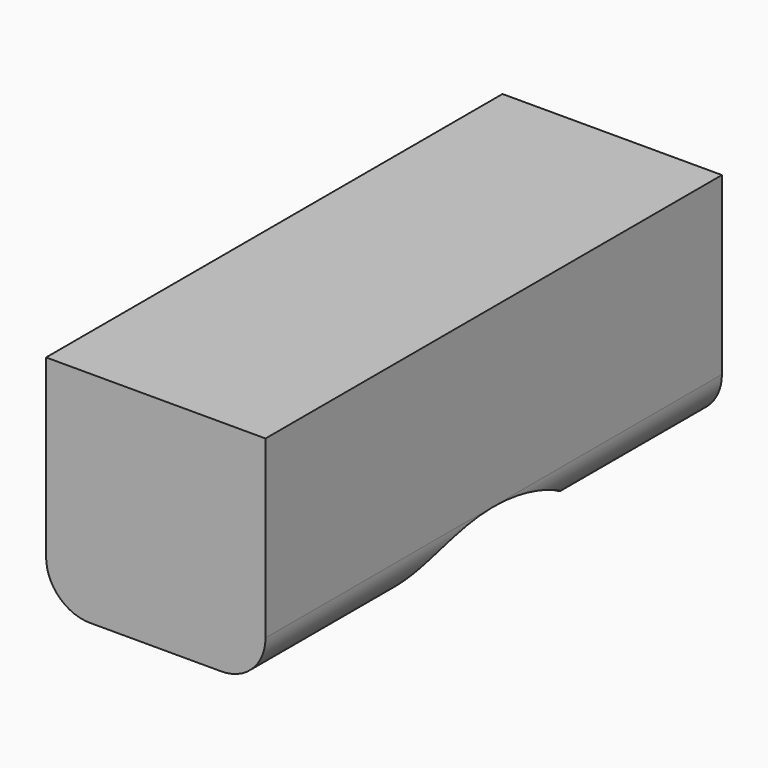
from build123d import *

# Parameters (mm, degrees)
F0_W     = 31.75
F0_H     = 82.55
F1_DEPTH = 31.75
F2_R     = 6.35
F4_DEPTH = 31.75


with BuildPart() as f1:
    # F0 (on Top) → F1 (new body)
    with BuildSketch(Plane.XY):
        with Locations((-15.875, 0)):
            Rectangle(F0_W, F0_H)
    extrude(amount=F1_DEPTH)

    # F2
    f2_edges = [f1.edges().sort_by_distance(p)[0] for p in [
        (0, 0, 0),
        (-31.75, 0, 0),
    ]]
    fillet(f2_edges, radius=F2_R)

    # F3 (on face) → F4 (cut)
    with BuildSketch(Plane.YZ):
        with BuildLine():
            ThreePointArc((-17.107905, -0.321605), (9.302694, -42.731185), (-0.278371, 6.302431))
            ThreePointArc((-0.278371, 6.302431), (-9.302694, 4.539097), (-17.107905, -0.321605))
        make_face()
    extrude(amount=-F4_DEPTH, mode=Mode.SUBTRACT)


solid = f1.part
